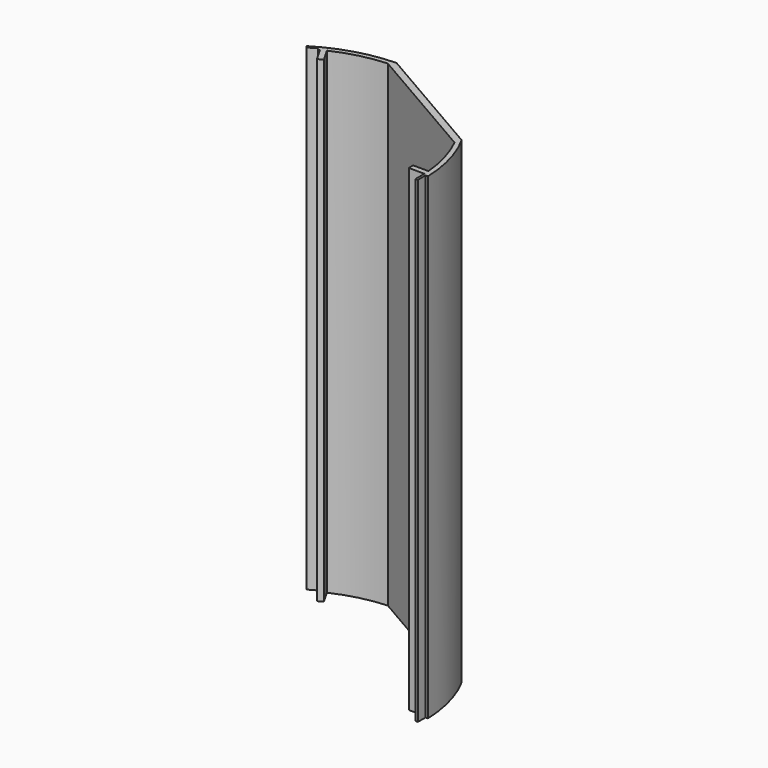
from build123d import *

# Parameters (mm, degrees)
F1_DEPTH = 254


with BuildPart() as f1:
    # F0 (on Top) → F1 (new body)
    with BuildSketch(Plane.XY):
        with BuildLine():
            ThreePointArc((-29.842062, 64.568127), (-16.660152, 69.246382), (-2.831554, 71.348459))
            Line((-2.831554, 71.348459), (63.255093, 33.106133))
            ThreePointArc((63.255093, 33.106133), (68.338603, 20.057423), (70.860705, 6.282449))
            Line((70.860705, 6.282449), (70.630319, 6.282449))
            Line((70.630319, 6.282449), (62.698711, 6.291514))
            Line((62.698711, 6.291514), (62.698711, 3.370512))
            Line((62.698711, 3.370512), (70.62698, 3.361451))
            Line((70.62698, 3.361451), (71.05381, 3.361451))
            Line((71.05381, 3.361451), (71.05343, 2.472453))
            Line((71.05343, 2.472453), (71.051259, -2.607547))
            Line((71.051259, -2.607547), (72.340575, -2.607547))
            Line((72.340575, -2.607547), (72.340575, 2.472453))
            Line((72.340575, 2.472453), (73.630904, 2.472453))
            ThreePointArc((73.630904, 2.472453), (70.963492, 20.100215), (64.273057, 36.625686))
            Line((64.273057, 36.625686), (-0.291446, 73.98688))
            ThreePointArc((-0.291446, 73.98688), (-20.379161, 70.861714), (-38.925678, 62.53647))
            Line((-38.925678, 62.53647), (-38.293981, 61.433763))
            Line((-38.293981, 61.433763), (-33.886026, 63.958903))
            Line((-33.886026, 63.958903), (-33.259961, 62.866025))
            ThreePointArc((-33.259961, 62.866025), (-32.867158, 63.073001), (-32.473114, 63.277605))
            Line((-32.473114, 63.277605), (-32.256725, 62.907915))
            Line((-32.256725, 62.907915), (-28.302588, 56.041036))
            Line((-28.302588, 56.041036), (-25.77126, 57.498644))
            Line((-25.77126, 57.498644), (-29.725397, 64.365523))
            Line((-29.725397, 64.365523), (-29.842062, 64.568127))
        make_face()
    extrude(amount=F1_DEPTH)


solid = f1.part
